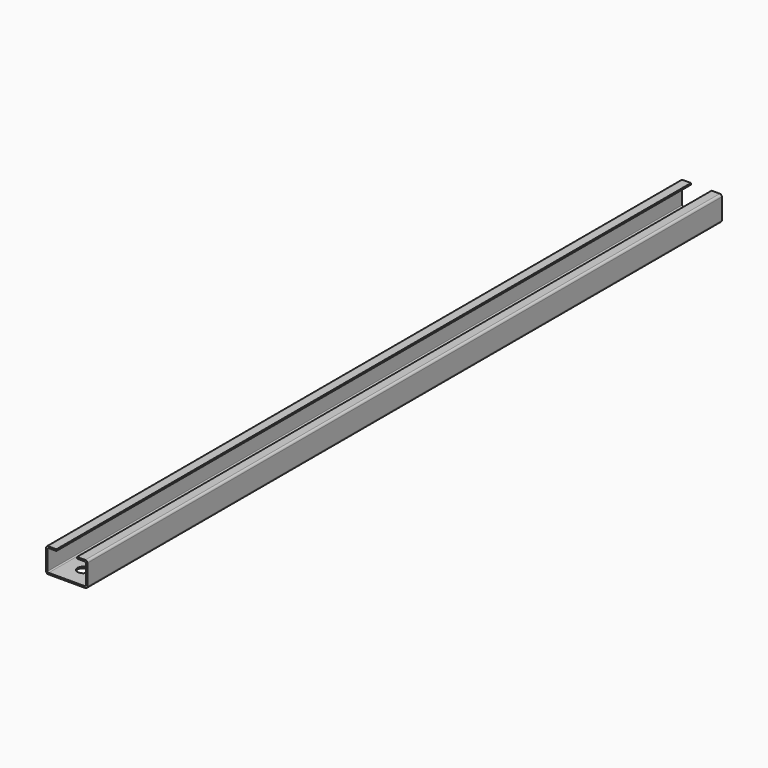
from build123d import *

# Parameters (mm, degrees)
F1_DEPTH = 768.81
F3_D     = 11


with BuildPart() as f1:
    # F0 (on Front) → F1 (new body)
    with BuildSketch(Plane.XZ):
        with BuildLine():
            ThreePointArc((-83.451096, 34.500868), (-82.86531, 33.086655), (-81.451096, 32.500868))
            Line((-81.451096, 32.500868), (-45.451096, 32.500868))
            ThreePointArc((-45.451096, 32.500868), (-44.036883, 33.086655), (-43.451096, 34.500868))
            Line((-43.451096, 34.500868), (-43.451096, 54.500868))
            ThreePointArc((-43.451096, 54.500868), (-44.036883, 55.915082), (-45.451096, 56.500868))
            Line((-45.451096, 56.500868), (-53.451096, 56.500868))
            Line((-53.451096, 56.500868), (-53.451096, 55.000868))
            Line((-53.451096, 55.000868), (-45.951096, 55.000868))
            ThreePointArc((-45.951096, 55.000868), (-45.24399, 54.707975), (-44.951096, 54.000868))
            Line((-44.951096, 54.000868), (-44.951096, 35.000868))
            ThreePointArc((-44.951096, 35.000868), (-45.24399, 34.293762), (-45.951096, 34.000868))
            Line((-45.951096, 34.000868), (-80.951096, 34.000868))
            ThreePointArc((-80.951096, 34.000868), (-81.658203, 34.293762), (-81.951096, 35.000868))
            Line((-81.951096, 35.000868), (-81.951096, 54.000868))
            ThreePointArc((-81.951096, 54.000868), (-81.658203, 54.707975), (-80.951096, 55.000868))
            Line((-80.951096, 55.000868), (-73.451096, 55.000868))
            Line((-73.451096, 55.000868), (-73.451096, 56.500868))
            Line((-73.451096, 56.500868), (-81.451096, 56.500868))
            ThreePointArc((-81.451096, 56.500868), (-82.86531, 55.915082), (-83.451096, 54.500868))
            Line((-83.451096, 54.500868), (-83.451096, 34.500868))
        make_face()
    extrude(amount=F1_DEPTH)

    # F3 (through all)
    with Locations(Plane(origin=(0, 0, 32.500868), x_dir=(1, 0, 0), z_dir=(0, 0, -1))):
        with Locations((-63.451096, 748.81), (-63.451096, 20)):
            Hole(F3_D / 2)


solid = f1.part
